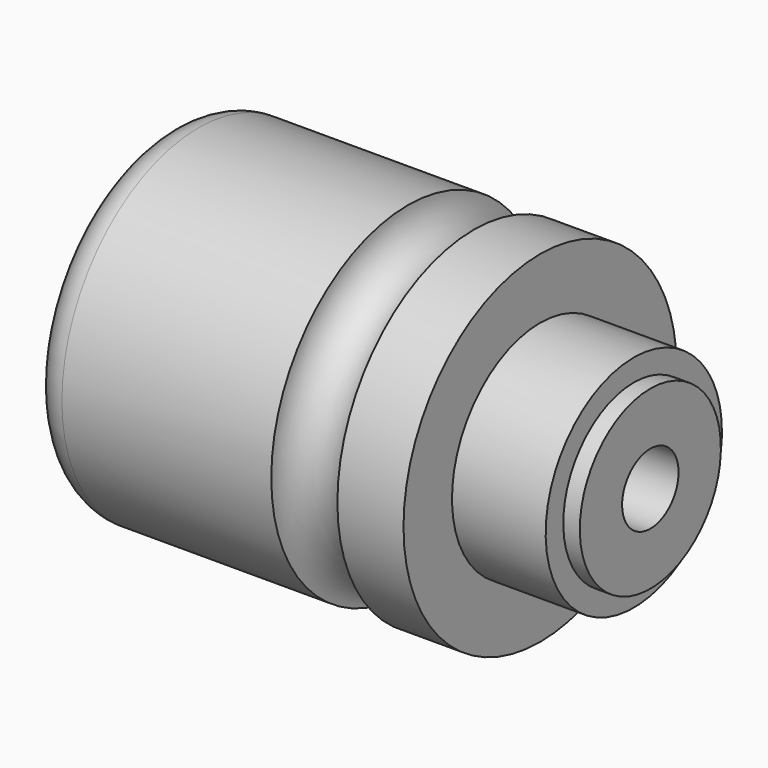
from build123d import *

# Parameters (mm, degrees)
F0_W   = 3
F0_H   = 16
F2_W   = 58
F2_H   = 6.4001772553
F2_W_2 = 3
F2_H_2 = 12.5


with BuildPart() as f1:
    # F0 (on Front) → F1 (revolve)
    with BuildSketch(Plane.XZ):
        with BuildLine():
            Line((0, 0), (44, 0))
            Line((44, 0), (44, 31))
            Line((44, 31), (6, 31))
            ThreePointArc((6, 31), (1.7573593129, 29.2426406871), (0, 25))
            Line((0, 25), (0, 0))
        make_face()
        with BuildLine():
            Line((44, 0), (56, 0))
            Line((56, 0), (56, 31))
            ThreePointArc((56, 31), (50, 25), (44, 31))
            Line((44, 31), (44, 0))
        make_face()
        Polygon((56, 0), (68, 0), (68, 20), (68, 31), (56, 31), align=None)
        Polygon((68, 0), (85, 0), (85, 16), (85, 20), (68, 20), align=None)
        with Locations((86.5, 8)):
            Rectangle(F0_W, F0_H)
    revolve(axis=Axis((28, 0, 0), (-1, 0, 0)))

    # F2 (on Front) → F3 (revolve, cut)
    with BuildSketch(Plane.XZ):
        with Locations((59, 3.2000886276)):
            Rectangle(F2_W, F2_H)
        Polygon((22, 0), (30, 0), (30, 6.4001772553), (30, 16), (22, 16), align=None)
        Polygon((15, 0), (22, 0), (22, 16), (22, 20.5), (15, 20.5), (15, 12.5), align=None)
        with Locations((13.5, 6.25)):
            Rectangle(F2_W_2, F2_H_2)
        Polygon((1.5, 0), (12, 0), (12, 12.5), (12, 16), (1.5, 16), align=None)
        Polygon((0, 0), (1.5, 0), (1.5, 16), (1.5, 25), (0, 25), align=None)
    revolve(axis=Axis((74.5795071125, 0, 0), (1, 0, 0)), mode=Mode.SUBTRACT)


solid = f1.part
